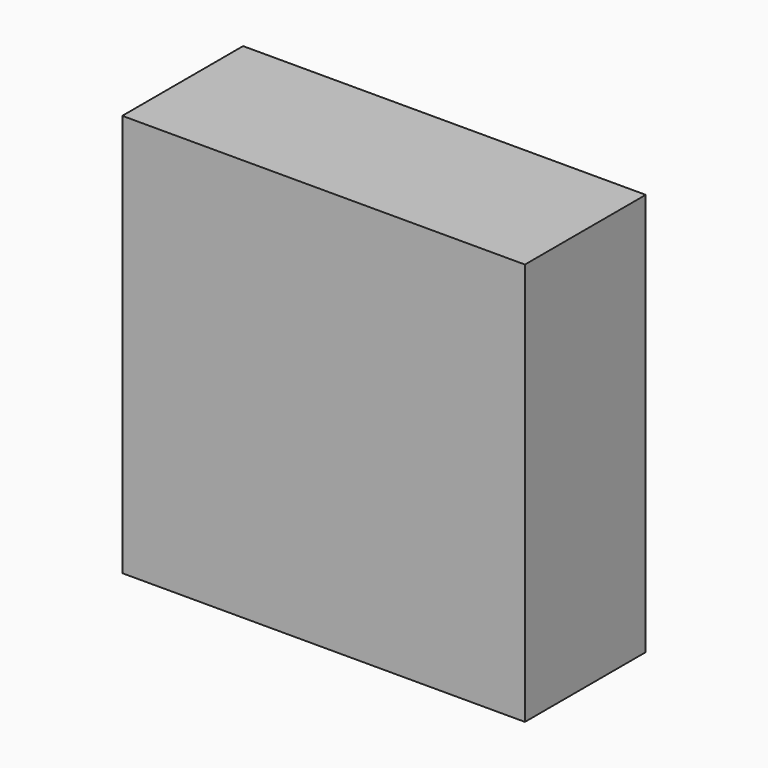
from build123d import *

# Parameters (mm, degrees)
F1_DEPTH = 30


with BuildPart() as f1:
    # F0 (on Front) → F1 (new body)
    with BuildSketch(Plane.XZ):
        with BuildLine():
            Line((40, 40), (-40, 40))
            Line((-40, 40), (-40, 20))
            Line((-40, 20), (-18.658292, 20))
            ThreePointArc((-18.658292, 20), (-0.855806, 14.146873), (10, -1.128568))
            Line((10, -1.128568), (10, -40))
            Line((10, -40), (40, -40))
            Line((40, -40), (40, 40))
        make_face()
        with BuildLine():
            Line((-18.658292, 20), (-40, 20))
            Line((-40, 20), (-40, -20))
            ThreePointArc((-40, -20), (-22.618751, -26.428126), (-10, -40))
            Line((-10, -40), (10, -40))
            Line((10, -40), (10, -1.128568))
            ThreePointArc((10, -1.128568), (-0.855806, 14.146873), (-18.658292, 20))
        make_face()
        with BuildLine():
            ThreePointArc((-10, -40), (-22.618751, -26.428126), (-40, -20))
            Line((-40, -20), (-40, -40))
            Line((-40, -40), (-10, -40))
        make_face()
    extrude(amount=-F1_DEPTH)


solid = f1.part
